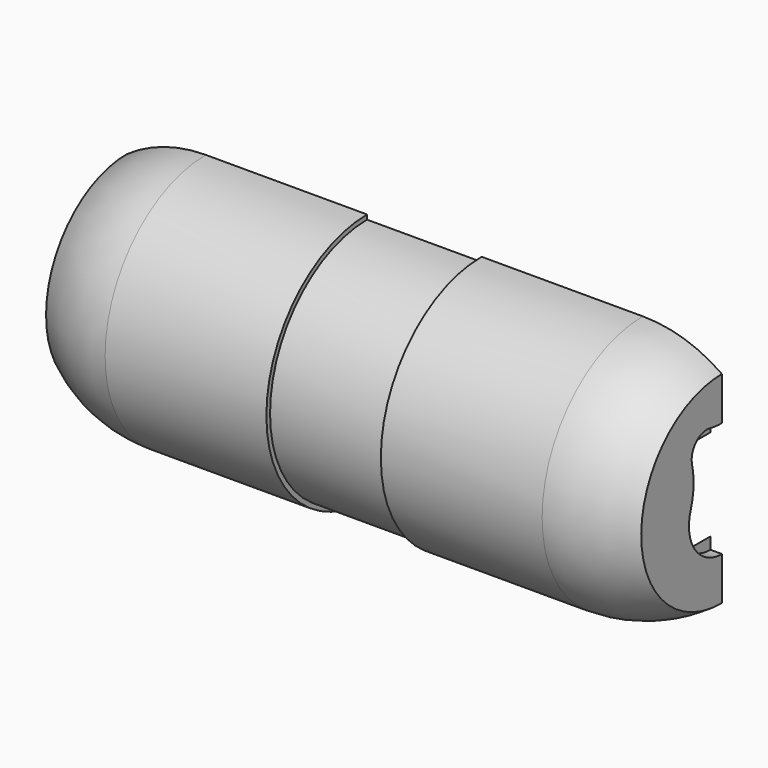
from build123d import *

# Parameters (mm, degrees)
F2_ANGLE  = 180
F4_DEPTH  = 2.54
F6_W      = 6.35
F6_H      = 0.508
F9_DEPTH  = 2.54
F10_W     = 2.54
F10_H     = 11.1908745342
F11_DEPTH = 25.4
F13_DEPTH = 0.635
F15_DEPTH = 0.635
F17_DEPTH = 0.635
F18_R     = 4.064
F19_DEPTH = 0.635
F21_DEPTH = 2.54


with BuildPart() as f2:
    # F0 (on Front) → F2 (revolve)
    with BuildSketch(Plane.XZ):
        with BuildLine():
            ThreePointArc((19.05, 2.54), (16.2382381507, 5.7781856359), (12.1229678072, 6.985))
            Line((12.1229678072, 6.985), (-12.1229678072, 6.985))
            ThreePointArc((-12.1229678072, 6.985), (-16.2382381507, 5.7781856359), (-19.05, 2.54))
            Line((-19.05, 2.54), (-15.875, 2.54))
            ThreePointArc((-15.875, 2.54), (-14.0730463142, 3.4841389426), (-12.065, 3.81))
            Line((-12.065, 3.81), (12.065, 3.81))
            ThreePointArc((12.065, 3.81), (14.0730463142, 3.4841389426), (15.875, 2.54))
            Line((15.875, 2.54), (19.05, 2.54))
        make_face()
    revolve(axis=Axis((-1.6419366002, 0, 0), (1, 0, 0)), revolution_arc=F2_ANGLE)

    # F3 (on face) → F4 (cut)
    with BuildSketch(Plane(origin=(0, 0, 0), x_dir=(-1, 0, 0), z_dir=(0, 1, 0))):
        with BuildLine():
            ThreePointArc((15.875, -2.54), (14.0730463142, -3.4841389426), (12.065, -3.81))
            Line((12.065, -3.81), (-12.065, -3.81))
            ThreePointArc((-12.065, -3.81), (-14.0730463142, -3.4841389426), (-15.875, -2.54))
            ThreePointArc((-15.875, -2.54), (-14.3545250599, -4.3867875899), (-12.065, -5.08))
            Line((-12.065, -5.08), (12.065, -5.08))
            ThreePointArc((12.065, -5.08), (14.3531088493, -4.384663274), (15.875, -2.54))
        make_face()
        with BuildLine():
            ThreePointArc((15.875, 2.54), (14.3531088493, 4.384663274), (12.065, 5.08))
            Line((12.065, 5.08), (-12.065, 5.08))
            ThreePointArc((-12.065, 5.08), (-14.3545250599, 4.3867875899), (-15.875, 2.54))
            ThreePointArc((-15.875, 2.54), (-14.0730463142, 3.4841389426), (-12.065, 3.81))
            Line((-12.065, 3.81), (12.065, 3.81))
            ThreePointArc((12.065, 3.81), (14.0730463142, 3.4841389426), (15.875, 2.54))
        make_face()
    extrude(amount=-F4_DEPTH, mode=Mode.SUBTRACT)

    # F6 (on face) → F7 (revolve, cut)
    with BuildSketch(Plane(origin=(0, 0, 0), x_dir=(-1, 0, 0), z_dir=(0, 1, 0))):
        with Locations((0, 6.985)):
            Rectangle(F6_W, F6_H)
    revolve(axis=Axis((-0.6197560579, 0, 0), (-1, 0, 0)), mode=Mode.SUBTRACT)

    # F8 (on face) → F9 (cut)
    with BuildSketch(Plane(origin=(0, -2.54, 0), x_dir=(-1, 0, 0), z_dir=(0, 1, 0))):
        with BuildLine():
            Line((12.065, -3.302), (-12.065, -3.302))
            ThreePointArc((-12.065, -3.302), (-14.0964974368, -2.8562435921), (-15.875, -1.778))
            Line((-15.875, -1.778), (-15.875, -2.54))
            ThreePointArc((-15.875, -2.54), (-14.0730463142, -3.4841389426), (-12.065, -3.81))
            Line((-12.065, -3.81), (12.065, -3.81))
            ThreePointArc((12.065, -3.81), (14.0730463142, -3.4841389426), (15.875, -2.54))
            Line((15.875, -2.54), (15.875, -1.778))
            ThreePointArc((15.875, -1.778), (14.1167477915, -2.9068694788), (12.065, -3.302))
        make_face()
        with BuildLine():
            ThreePointArc((15.875, 2.54), (14.0730463142, 3.4841389426), (12.065, 3.81))
            Line((12.065, 3.81), (-12.065, 3.81))
            ThreePointArc((-12.065, 3.81), (-14.0730463142, 3.4841389426), (-15.875, 2.54))
            Line((-15.875, 2.54), (-15.875, 1.778))
            ThreePointArc((-15.875, 1.778), (-14.0964974368, 2.8562435921), (-12.065, 3.302))
            Line((-12.065, 3.302), (12.065, 3.302))
            ThreePointArc((12.065, 3.302), (14.1167477915, 2.9068694788), (15.875, 1.778))
            Line((15.875, 1.778), (15.875, 2.54))
        make_face()
    extrude(amount=F9_DEPTH, mode=Mode.SUBTRACT)

    # F10 (on face) → F11 (cut)
    with BuildSketch(Plane(origin=(0, 0, 0), x_dir=(-1, 0, 0), z_dir=(0, 1, 0))):
        with Locations((-17.78, 0)):
            Rectangle(F10_W, F10_H)
        with Locations((17.78, 0)):
            Rectangle(F10_W, F10_H)
    extrude(amount=-F11_DEPTH, mode=Mode.SUBTRACT)

    # F12 (on face) → F13 (join, through all)
    with BuildSketch(Plane.YZ.offset(16.51)):
        with BuildLine():
            Line((0, -2.54), (0, 2.54))
            ThreePointArc((0, 2.54), (-2.54, 0), (0, -2.54))
        make_face()
    extrude(amount=-F13_DEPTH)

    # F14 (on face) → F15 (cut, through all)
    with BuildSketch(Plane.YZ.offset(16.51)):
        with BuildLine():
            ThreePointArc((-2.0707510052, 2.0194225538), (-1.9696309355, 0.9047357394), (-2.1717097382, -0.1961348798))
            ThreePointArc((-2.1717097382, -0.1961348798), (0.0006908158, -3.195908418), (2.1712779452, -0.1948224543))
            ThreePointArc((2.1712779452, -0.1948224543), (1.9685414869, 0.9057599903), (2.0689058267, 2.0203499545))
            ThreePointArc((2.0689058267, 2.0203499545), (1.7968430427, 2.9874721132), (0.8360337914, 3.2810517634))
            ThreePointArc((0.8360337914, 3.2810517634), (4.14538e-05, 3.1959085075), (-0.8358696943, 3.281845199))
            ThreePointArc((-0.8358696943, 3.281845199), (-1.7984885251, 2.9882815567), (-2.0707510052, 2.0194225538))
        make_face()
    extrude(amount=-F15_DEPTH, mode=Mode.SUBTRACT)

    # F16 (on face) → F17 (join, through all)
    with BuildSketch(Plane(origin=(-16.51, 0, 0), x_dir=(0, -1, 0), z_dir=(-1, 0, 0))):
        with BuildLine():
            Line((0, 2.54), (0, -2.54))
            ThreePointArc((0, -2.54), (2.54, 0), (0, 2.54))
        make_face()
    extrude(amount=-F17_DEPTH)

    # F18 (on face) → F19 (cut, through all)
    with BuildSketch(Plane(origin=(-16.51, 0, 0), x_dir=(0, -1, 0), z_dir=(-1, 0, 0))):
        Circle(F18_R)
    extrude(amount=-F19_DEPTH, mode=Mode.SUBTRACT)

    # F20 (on face) → F21 (cut, through all)
    with BuildSketch(Plane(origin=(0, -2.54, 0), x_dir=(-1, 0, 0), z_dir=(0, 1, 0))):
        with BuildLine():
            Line((12.0565390969, 5.08), (-12.065, 5.08))
            ThreePointArc((-12.065, 5.08), (-14.3545250599, 4.3867875899), (-15.875, 2.54))
            Line((-15.875, 2.54), (-15.875, -2.54))
            ThreePointArc((-15.875, -2.54), (-14.3545250599, -4.3867875899), (-12.065, -5.08))
            Line((-12.065, -5.08), (12.056537613, -5.0800086453))
            ThreePointArc((12.056537613, -5.0800086453), (14.3495870824, -4.3870085201), (15.875, -2.54))
            Line((15.875, -2.54), (15.875, 2.54))
            ThreePointArc((15.875, 2.54), (14.3531088493, 4.384663274), (12.065, 5.08))
            Line((12.065, 5.08), (12.0565390969, 5.08))
        make_face()
    extrude(amount=F21_DEPTH, mode=Mode.SUBTRACT)


solid = f2.part
